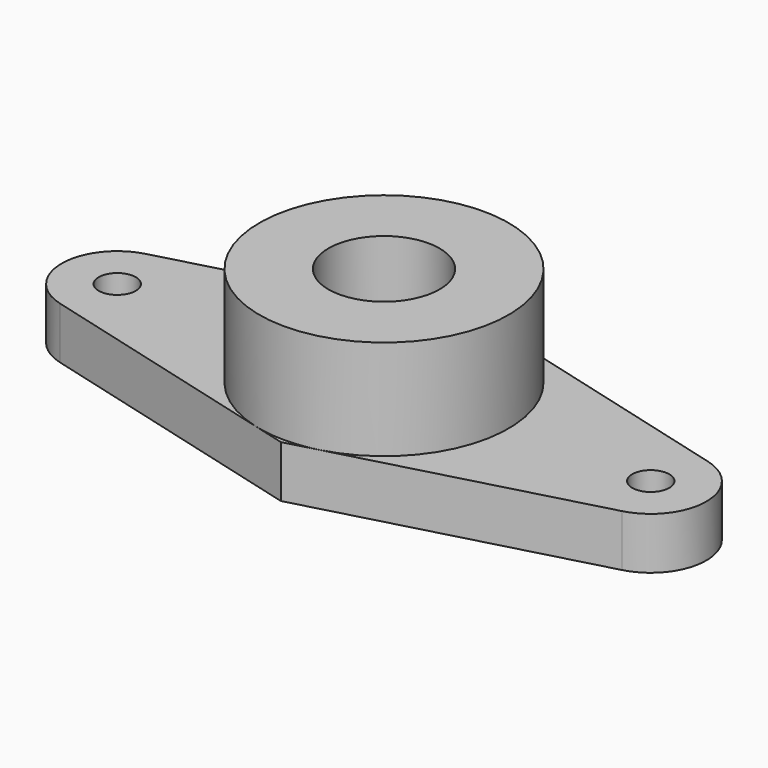
from build123d import *

# Parameters (mm, degrees)
SKETCH_R     = 5
PAD_DEPTH    = 14
PAD001_DEPTH = 27


with BuildPart() as part:
    # Sketch → Pad (new body)
    with BuildSketch(Plane.XY):
        with BuildLine():
            Line((0, 34.821453), (75.88228, 14.488889))
            ThreePointArc((75.88228, -14.488889), (87, 0), (75.88228, 14.488889))
            Line((0, -34.821453), (75.88228, -14.488889))
            Line((0, -15), (0, -34.821453))
            ThreePointArc((0, -15), (15, 0), (0, 15))
            Line((0, 34.821453), (0, 15))
        make_face()
        with Locations((72, 0)):
            Circle(SKETCH_R, mode=Mode.SUBTRACT)
    extrude(amount=PAD_DEPTH)

    # Sketch001 (on Face9 of Pad) → Pad001 (join)
    with BuildSketch(Plane.XY.offset(14)):
        with BuildLine():
            ThreePointArc((0, -33.634944), (33.634944, 0), (0, 33.634944))
            Line((0, 15), (0, 33.634944))
            ThreePointArc((0, -15), (15, 0), (0, 15))
            Line((0, -15), (0, -33.634944))
        make_face()
    extrude(amount=PAD001_DEPTH)

    # Mirrored: part across YZ


with BuildPart() as part_1:
    add(part.part)
    add(part.part.mirror(Plane.YZ))


solid = part_1.part
